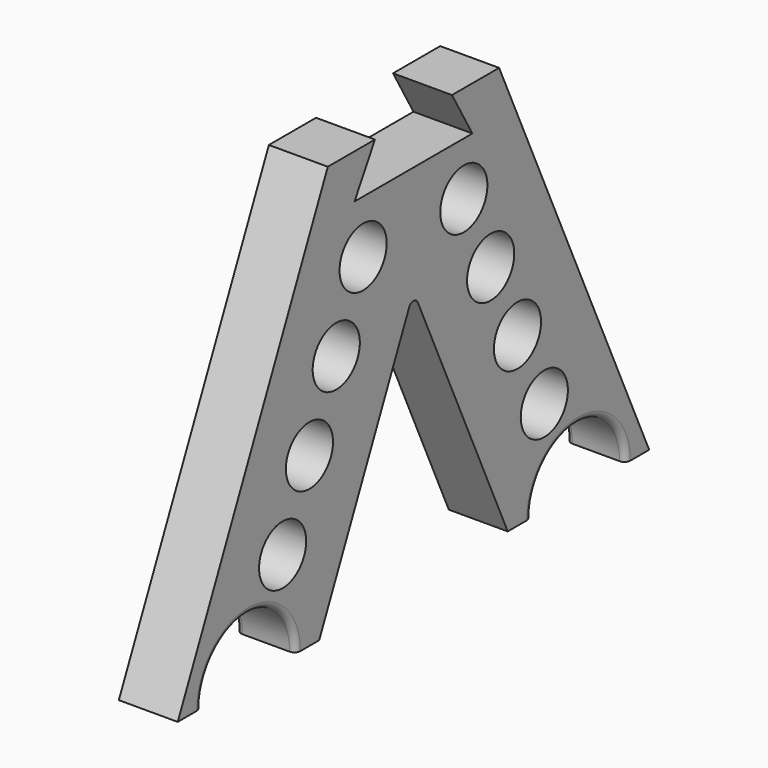
from build123d import *

# Parameters (mm, degrees)
F0_R     = 6.35
F1_DEPTH = 12.7
F3_R     = 1.27


with BuildPart() as f1:
    # F0 (on Right) → F1 (new body)
    with BuildSketch(Plane.YZ):
        with BuildLine():
            Line((-23.075738686, 88.9), (-63.5, 0))
            Line((-63.5, 0), (-57.15, 0))
            ThreePointArc((-57.15, 0), (-44.45, 12.7), (-31.75, 0))
            Line((-31.75, 0), (-25.4, 0))
            Line((-25.4, 0), (0, 55.85902937))
            Line((0, 55.85902937), (0, 79.375))
            Line((0, 79.375), (-15.875, 79.375))
            Line((-15.875, 79.375), (-10.375738686, 88.9))
            Line((-10.375738686, 88.9), (-23.075738686, 88.9))
        make_face()
        with Locations((-35.2503683902, 20.2315941844)):
            Circle(F0_R, mode=Mode.SUBTRACT)
        with Locations((-28.0220864111, 36.1278467579)):
            Circle(F0_R, mode=Mode.SUBTRACT)
        with Locations((-20.7938044319, 52.0240993314)):
            Circle(F0_R, mode=Mode.SUBTRACT)
        with Locations((-13.5655224528, 67.9203519049)):
            Circle(F0_R, mode=Mode.SUBTRACT)
    extrude(amount=F1_DEPTH)

    # F2: F1 across plane


with BuildPart() as f1_1:
    add(f1.part)
    add(f1.part.mirror(Plane.XZ))

    # F3
    f3_edges = [f1_1.edges().sort_by_distance(p)[0] for p in [
        (12.7, 44.45, 12.7),
        (0, 44.45, 12.7),
        (0, -44.45, 12.7),
        (12.7, -44.45, 12.7),
        (6.35, 0, 55.859029),
    ]]
    fillet(f3_edges, radius=F3_R)


solid = f1_1.part
